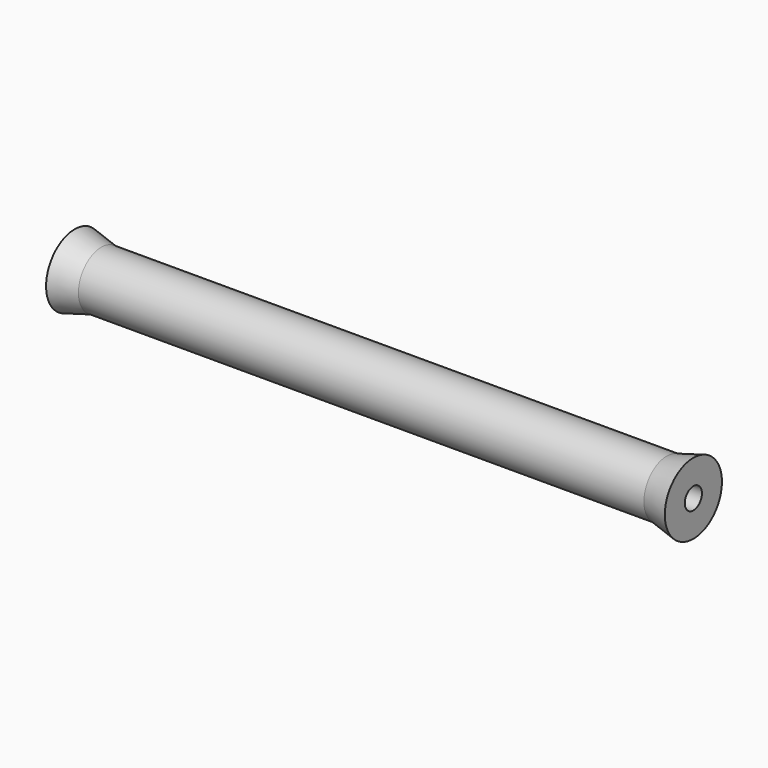
from build123d import *

# Parameters (mm, degrees)
F4_D           = 4.5
F4_DEPTH       = 25
F4_TIP         = 1.3519363928
F4_ON_F3_D     = 4.5
F4_ON_F3_DEPTH = 25
F4_ON_F3_TIP   = 1.3519363928


with BuildPart() as f1:
    # F0 (on Front) → F1 (revolve)
    with BuildSketch(Plane.XZ):
        Polygon((-65, 7.5), (-65, 0), (65, 0), (65, 7.5), (59.4019237886, 6), (-59.4019237886, 6), align=None)
    revolve(axis=Axis((0, 0, 0), (-1, 0, 0)))

    # F4
    with Locations(Plane(origin=(-65, 0, 0), x_dir=(0, -1, 0), z_dir=(-1, 0, 0))):
        with Locations((0, 0)):
            Hole(F4_D / 2, depth=F4_DEPTH)
            with Locations((0, 0, -(F4_DEPTH + F4_TIP / 2))):  # 118° drill point
                Cone(0, F4_D / 2, F4_TIP, mode=Mode.SUBTRACT)

    # F4 on F3
    with Locations(Plane.YZ.offset(65)):
        with Locations((0, 0)):
            Hole(F4_ON_F3_D / 2, depth=F4_ON_F3_DEPTH)
            with Locations((0, 0, -(F4_ON_F3_DEPTH + F4_ON_F3_TIP / 2))):  # 118° drill point
                Cone(0, F4_ON_F3_D / 2, F4_ON_F3_TIP, mode=Mode.SUBTRACT)


solid = f1.part
